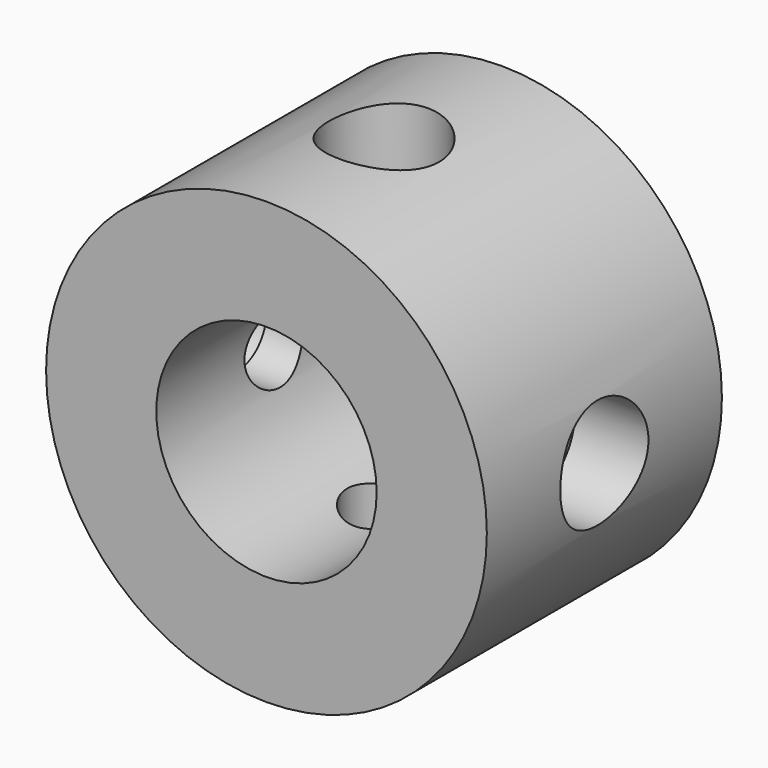
from build123d import *

# Parameters (mm, degrees)
F0_R      = 30
F0_R_2    = 15
F1_DEPTH  = 20
F2_R      = 5
F3_DEPTH  = 50.4
F6_R      = 7.5
F7_DEPTH  = 10
F8_R      = 7.5
F9_DEPTH  = 10
F10_R     = 5
F11_DEPTH = 44.6
F13_R     = 7.5
F14_DEPTH = 10
F16_R     = 7.5
F17_DEPTH = 10


with BuildPart() as f1:
    # F0 (on Front) → F1 (new body, symmetric)
    with BuildSketch(Plane.XZ):
        Circle(F0_R)
        Circle(F0_R_2, mode=Mode.SUBTRACT)
    extrude(amount=F1_DEPTH, both=True)

    # F2 (on Top) → F3 (cut, symmetric)
    with BuildSketch(Plane.XY):
        Circle(F2_R)
    extrude(amount=F3_DEPTH, both=True, mode=Mode.SUBTRACT)

    # F6 (on offset) → F7 (cut)
    with BuildSketch(Plane.XY.offset(30)):
        Circle(F6_R)
    extrude(amount=-F7_DEPTH, mode=Mode.SUBTRACT)

    # F8 (on offset) → F9 (cut)
    with BuildSketch(Plane.XY.offset(-30)):
        Circle(F8_R)
    extrude(amount=F9_DEPTH, mode=Mode.SUBTRACT)

    # F10 (on Right) → F11 (cut, symmetric)
    with BuildSketch(Plane.YZ):
        Circle(F10_R)
    extrude(amount=F11_DEPTH, both=True, mode=Mode.SUBTRACT)

    # F13 (on offset) → F14 (cut)
    with BuildSketch(Plane.YZ.offset(30)):
        Circle(F13_R)
    extrude(amount=-F14_DEPTH, mode=Mode.SUBTRACT)

    # F16 (on offset) → F17 (cut)
    with BuildSketch(Plane.YZ.offset(-30)):
        Circle(F16_R)
    extrude(amount=F17_DEPTH, mode=Mode.SUBTRACT)


solid = f1.part
